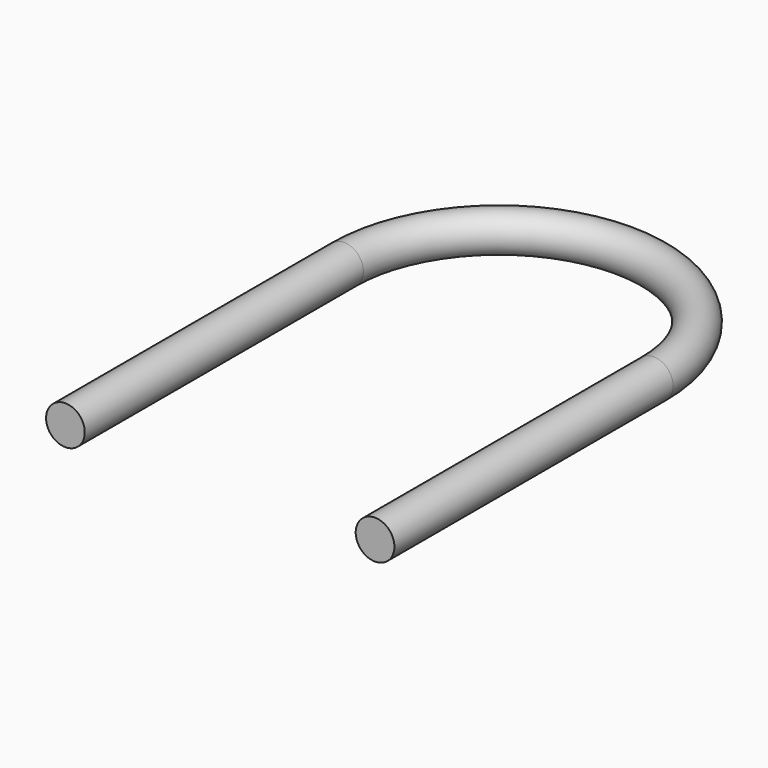
from build123d import *

# Parameters (mm, degrees)
F1_R = 3.175


with BuildPart() as f2:
    # F2: sweep along a path in F0
    with BuildLine(Plane.XY) as f2_path:
        Line((25.4, 0), (25.4, 57.15))
        ThreePointArc((25.4, 57.15), (0, 82.55), (-25.4, 57.15))
        Line((-25.4, 57.15), (-25.4, 0))
    # F1 (on Front) → F2 (sweep)
    with BuildSketch(Plane.XZ):
        with Locations((25.4, 0)):
            Circle(F1_R)
    sweep(path=f2_path.line)


solid = f2.part
